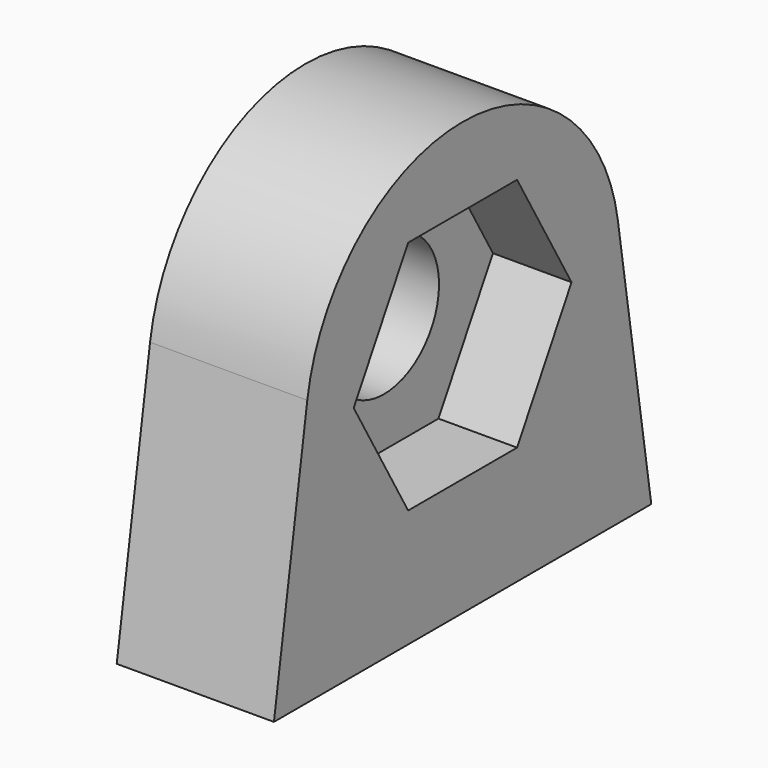
from build123d import *

# Parameters (mm, degrees)
F1_DEPTH = 4
F0_R     = 1.75
F2_DEPTH = 2


with BuildPart() as f1:
    # F0 (on Right) → F1 (new body)
    with BuildSketch(Plane.YZ):
        with BuildLine():
            ThreePointArc((-21.713444, 33.49857), (-21.668359, 33.113144), (-21.6533, 32.725381))
            ThreePointArc((-21.6533, 32.725381), (-27.041063, 27.74044), (-31.593157, 33.49857))
            Line((-31.593157, 33.49857), (-32.6533, 26.725381))
            Line((-32.6533, 26.725381), (-20.6533, 26.725381))
            Line((-20.6533, 26.725381), (-21.713444, 33.49857))
        make_face()
        with BuildLine():
            ThreePointArc((-31.593157, 33.49857), (-27.041063, 27.74044), (-21.6533, 32.725381))
            ThreePointArc((-21.6533, 32.725381), (-21.668359, 33.113144), (-21.713444, 33.49857))
            ThreePointArc((-21.713444, 33.49857), (-26.6533, 37.725381), (-31.593157, 33.49857))
        make_face()
        Polygon((-28.385351, 29.725381), (-30.117402, 32.725381), (-28.385351, 35.725381), (-24.92125, 35.725381), (-23.189199, 32.725381), (-24.92125, 29.725381), align=None, mode=Mode.SUBTRACT)
    extrude(amount=F1_DEPTH)

    # F0 (on Right) → F2 (join)
    with BuildSketch(Plane.YZ):
        Polygon((-28.385351, 35.725381), (-30.117402, 32.725381), (-28.385351, 29.725381), (-24.92125, 29.725381), (-23.189199, 32.725381), (-24.92125, 35.725381), align=None)
        with Locations((-26.6533, 32.725381)):
            Circle(F0_R, mode=Mode.SUBTRACT)
    extrude(amount=F2_DEPTH)


solid = f1.part
